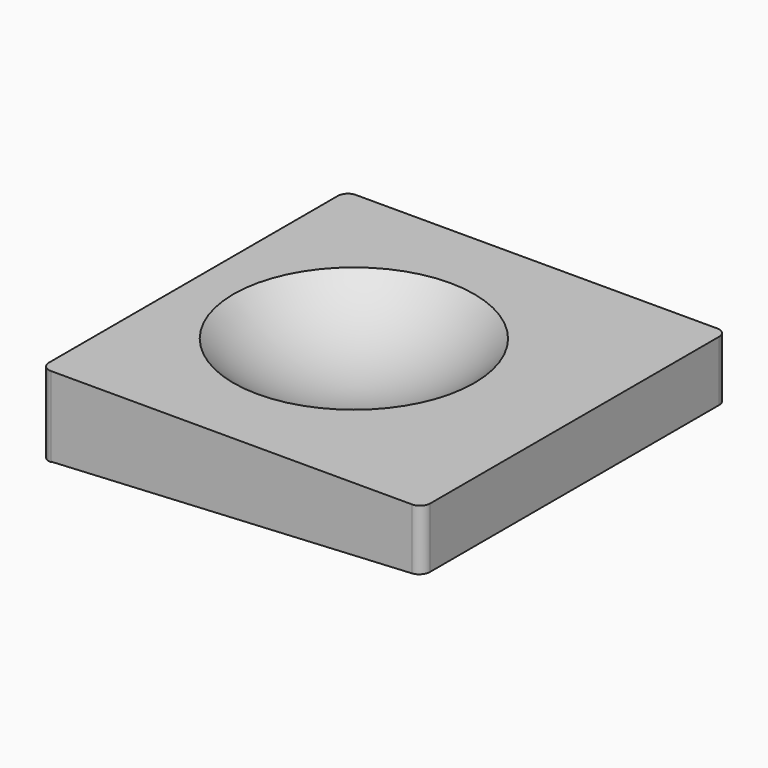
from build123d import *

# Parameters (mm, degrees)
F1_DEPTH = 4
F3_DEPTH = 19


with BuildPart() as f1:
    # F0 (on Top) → F1 (new body)
    with BuildSketch(Plane.XY):
        with BuildLine():
            ThreePointArc((9.5, 9), (9.3535533906, 9.3535533906), (9, 9.5))
            Line((9, 9.5), (-9, 9.5))
            ThreePointArc((-9, 9.5), (-9.3535533906, 9.3535533906), (-9.5, 9))
            Line((-9.5, 9), (-9.5, -9))
            ThreePointArc((-9.5, -9), (-9.3535533906, -9.3535533906), (-9, -9.5))
            Line((-9, -9.5), (9, -9.5))
            ThreePointArc((9, -9.5), (9.3535533906, -9.3535533906), (9.5, -9))
            Line((9.5, -9), (9.5, 9))
        make_face()
    extrude(amount=F1_DEPTH)

    # F2 (on face) → F3 (cut, through all)
    with BuildSketch(Plane.XZ.offset(9.5)):
        Polygon((9, 0.9736842105), (-9, 0.0263157895), (-9, 0), (9, 0), align=None)
        Polygon((9.5, 1), (9, 0.9736842105), (9, 0), (9.5, 0), align=None)
    extrude(amount=-F3_DEPTH, mode=Mode.SUBTRACT)

    # F4 (on Front) → F5 (revolve, cut)
    with BuildSketch(Plane.XZ):
        with BuildLine():
            Line((-1.5, 4), (-7.5, 4))
            ThreePointArc((-7.5, 4), (-4.75, 2.15), (-1.5, 1.5))
            Line((-1.5, 1.5), (-1.5, 4))
        make_face()
    revolve(axis=Axis((-1.5, 0, 2.3585720337), (0, 0, -1)), mode=Mode.SUBTRACT)


solid = f1.part
